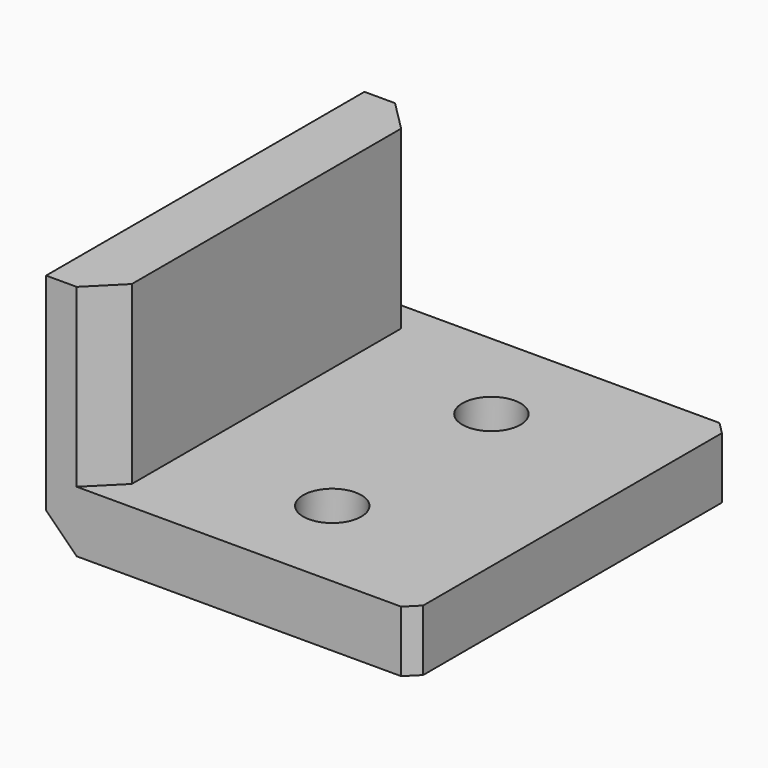
from build123d import *

# Parameters (mm, degrees)
SKETCH002_W                                = 12
SKETCH002_H                                = 13
SKETCH002_R                                = 0.95
PAD001007_DEPTH                            = 2
SKETCH003_W                                = 2
SKETCH003_H                                = 13
PAD002_DEPTH                               = 5.75
SKETCH004_R                                = 2.6
POCKET001_DEPTH                            = 1
CHAMFER005021077002006007019003032014_SIZE = 1
CHAMFER001_SIZE                            = 1
CHAMFER002_SIZE                            = 0.4


with BuildPart() as part:
    # Sketch002 → Pad001007 (new body)
    with BuildSketch(Plane.XY):
        with Locations((6, 0)):
            Rectangle(SKETCH002_W, SKETCH002_H)
        with Locations((6.75, 3.25)):
            Circle(SKETCH002_R, mode=Mode.SUBTRACT)
        with Locations((6.75, -3.25)):
            Circle(SKETCH002_R, mode=Mode.SUBTRACT)
    extrude(amount=PAD001007_DEPTH)

    # Sketch003 (on Face8 of Pad001007) → Pad002 (join)
    with BuildSketch(Plane.XY.offset(2)):
        with Locations((1, 0)):
            Rectangle(SKETCH003_W, SKETCH003_H)
    extrude(amount=PAD002_DEPTH)

    # Sketch004 (on Face4 of Pad002) → Pocket001 (cut)
    with BuildSketch(Plane(origin=(0, 0, 0), x_dir=(1, 0, 0), z_dir=(0, 0, -1))):
        with Locations((6.75, 3.25)):
            Circle(SKETCH004_R)
        with Locations((6.75, -3.25)):
            Circle(SKETCH004_R)
    extrude(amount=-POCKET001_DEPTH, mode=Mode.SUBTRACT)

    # Chamfer005021077002006007019003032014
    chamfer005021077002006007019003032014_edges = [part.edges().sort_by_distance(p)[0] for p in [
        (0, 0, 0),
    ]]
    chamfer(chamfer005021077002006007019003032014_edges, length=CHAMFER005021077002006007019003032014_SIZE)

    # Chamfer001
    chamfer001_edges = [part.edges().sort_by_distance(p)[0] for p in [
        (2, 6.5, 4.875),
        (2, -6.5, 4.875),
    ]]
    chamfer(chamfer001_edges, length=CHAMFER001_SIZE)

    # Chamfer002
    chamfer002_edges = [part.edges().sort_by_distance(p)[0] for p in [
        (12, 6.5, 1),
        (12, -6.5, 1),
    ]]
    chamfer(chamfer002_edges, length=CHAMFER002_SIZE)


solid = part.part
